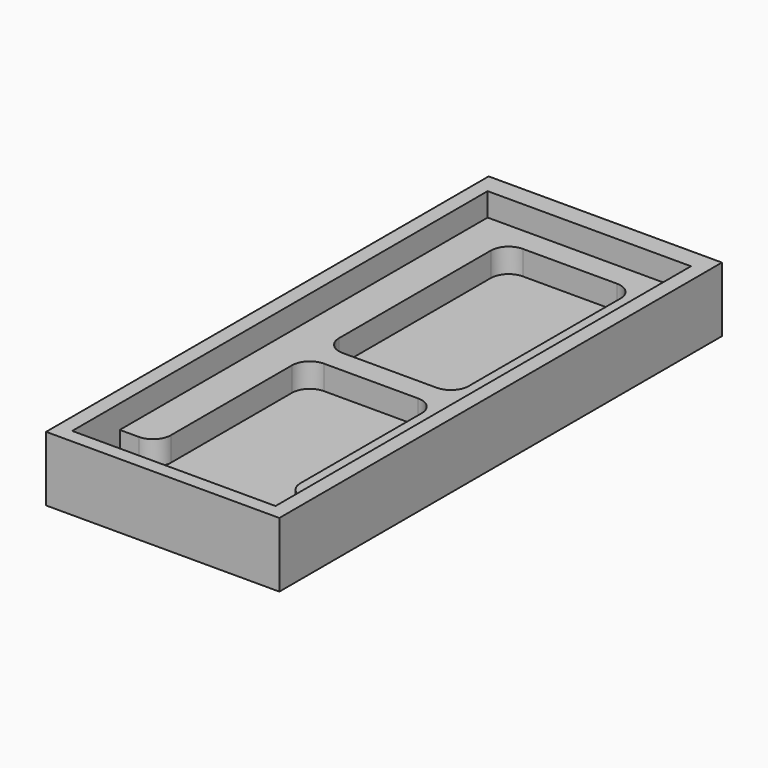
from build123d import *

# Parameters (mm, degrees)
F1_DEPTH = 0.97852
F2_DEPTH = 2.34214
F3_DEPTH = 3.65164


with BuildPart() as f1:
    # F0 (on Top) → F1 (new body)
    with BuildSketch(Plane.XY):
        with BuildLine():
            Line((0, 5.55195), (5.724427, 5.55195))
            Line((5.724427, 5.55195), (5.724427, 8.900544))
            Line((5.724427, 8.900544), (4.651407, 8.900544))
            ThreePointArc((4.651407, 8.900544), (3.9443, 9.193437), (3.651407, 9.900544))
            Line((3.651407, 9.900544), (3.651407, 18.435233))
            ThreePointArc((3.651407, 18.435233), (3.358514, 19.142339), (2.651407, 19.435233))
            Line((2.651407, 19.435233), (-2.651407, 19.435233))
            ThreePointArc((-2.651407, 19.435233), (-3.358514, 19.142339), (-3.651407, 18.435233))
            Line((-3.651407, 18.435233), (-3.651407, 9.900544))
            ThreePointArc((-3.651407, 9.900544), (-3.9443, 9.193437), (-4.651407, 8.900544))
            Line((-4.651407, 8.900544), (-5.724427, 8.900544))
            Line((-5.724427, 8.900544), (-5.724427, 5.55195))
            Line((-5.724427, 5.55195), (0, 5.55195))
        make_face()
        with BuildLine():
            ThreePointArc((3.651407, 32.429379), (3.358514, 33.136486), (2.651407, 33.429379))
            Line((2.651407, 33.429379), (0, 33.429379))
            Line((0, 33.429379), (-2.651407, 33.429379))
            ThreePointArc((-2.651407, 33.429379), (-3.358514, 33.136486), (-3.651407, 32.429379))
            Line((-3.651407, 32.429379), (-3.651407, 21.738077))
            ThreePointArc((-3.651407, 21.738077), (-3.358514, 21.03097), (-2.651407, 20.738077))
            Line((-2.651407, 20.738077), (2.651407, 20.738077))
            ThreePointArc((2.651407, 20.738077), (3.358514, 21.03097), (3.651407, 21.738077))
            Line((3.651407, 21.738077), (3.651407, 32.429379))
        make_face()
    extrude(amount=F1_DEPTH)

    # F0 (on Top) → F2 (join)
    with BuildSketch(Plane.XY):
        with BuildLine():
            Line((4.651407, 8.900544), (5.724427, 8.900544))
            Line((5.724427, 8.900544), (5.724427, 34.792196))
            Line((5.724427, 34.792196), (0, 34.792196))
            Line((0, 34.792196), (-5.724427, 34.792196))
            Line((-5.724427, 34.792196), (-5.724427, 8.900544))
            Line((-5.724427, 8.900544), (-4.651407, 8.900544))
            ThreePointArc((-4.651407, 8.900544), (-3.9443, 9.193437), (-3.651407, 9.900544))
            Line((-3.651407, 9.900544), (-3.651407, 18.435233))
            ThreePointArc((-3.651407, 18.435233), (-3.358514, 19.142339), (-2.651407, 19.435233))
            Line((-2.651407, 19.435233), (2.651407, 19.435233))
            ThreePointArc((2.651407, 19.435233), (3.358514, 19.142339), (3.651407, 18.435233))
            Line((3.651407, 18.435233), (3.651407, 9.900544))
            ThreePointArc((3.651407, 9.900544), (3.9443, 9.193437), (4.651407, 8.900544))
        make_face()
        with BuildLine():
            Line((0, 33.429379), (2.651407, 33.429379))
            ThreePointArc((2.651407, 33.429379), (3.358514, 33.136486), (3.651407, 32.429379))
            Line((3.651407, 32.429379), (3.651407, 21.738077))
            ThreePointArc((3.651407, 21.738077), (3.358514, 21.03097), (2.651407, 20.738077))
            Line((2.651407, 20.738077), (-2.651407, 20.738077))
            ThreePointArc((-2.651407, 20.738077), (-3.358514, 21.03097), (-3.651407, 21.738077))
            Line((-3.651407, 21.738077), (-3.651407, 32.429379))
            ThreePointArc((-3.651407, 32.429379), (-3.358514, 33.136486), (-2.651407, 33.429379))
            Line((-2.651407, 33.429379), (0, 33.429379))
        make_face(mode=Mode.SUBTRACT)
    extrude(amount=F2_DEPTH)

    # F0 (on Top) → F3 (join)
    with BuildSketch(Plane.XY):
        Polygon((6.567956, 4.76807), (6.567956, 35.9184), (0, 35.9184), (-6.567956, 35.9184), (-6.567956, 4.76807), (0, 4.76807), align=None)
        Polygon((5.724427, 8.900544), (5.724427, 5.55195), (0, 5.55195), (-5.724427, 5.55195), (-5.724427, 8.900544), (-5.724427, 34.792196), (0, 34.792196), (5.724427, 34.792196), align=None, mode=Mode.SUBTRACT)
    extrude(amount=F3_DEPTH)


solid = f1.part
